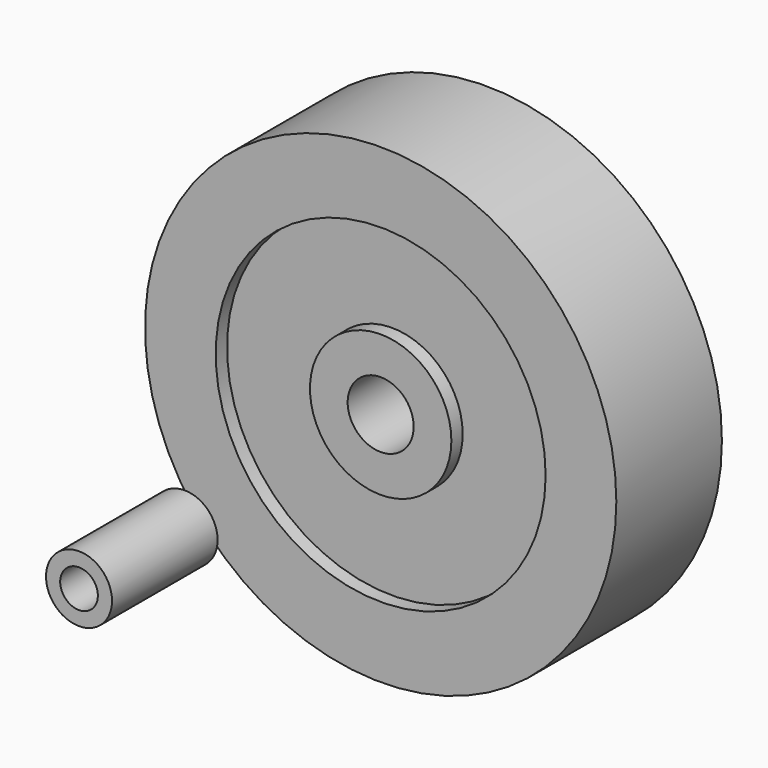
from build123d import *

# Parameters (mm, degrees)
F0_R      = 15
F0_R_2    = 7
F1_DEPTH  = 28
F2_R      = 50
F2_R_2    = 35
F3_DEPTH  = 28
F6_R      = 35
F6_R_2    = 15
F7_DEPTH  = 22
F9_R      = 7
F9_R_2    = 4
F10_DEPTH = 28


with BuildPart() as f1:
    # F0 (on Front) → F1 (new body)
    with BuildSketch(Plane.XZ):
        Circle(F0_R)
        Circle(F0_R_2, mode=Mode.SUBTRACT)
    extrude(amount=F1_DEPTH)


with BuildPart() as f3:
    # F2 (on Front) → F3 (new body)
    with BuildSketch(Plane.XZ):
        Circle(F2_R)
        Circle(F2_R_2, mode=Mode.SUBTRACT)
    extrude(amount=F3_DEPTH)


with BuildPart() as f7:
    # F6 (on offset) → F7 (new body)
    with BuildSketch(Plane.XZ.offset(3)):
        Circle(F6_R)
        Circle(F6_R_2, mode=Mode.SUBTRACT)
    extrude(amount=F7_DEPTH)


with BuildPart() as f10:
    # F9 (on offset) → F10 (new body)
    with BuildSketch(Plane.XZ.offset(80)):
        Circle(F9_R)
        Circle(F9_R_2, mode=Mode.SUBTRACT)
    extrude(amount=F10_DEPTH)


solid = Compound([f1.part, f3.part, f7.part, f10.part])
